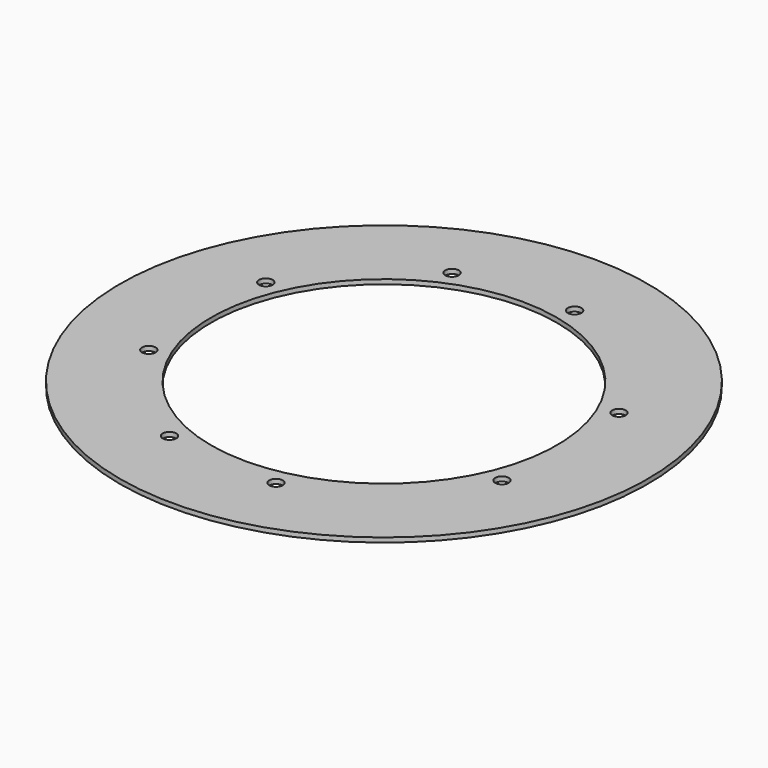
from build123d import *

# Parameters (mm, degrees)
CYLINDER757_R               = 1.5
CYLINDER757_DEPTH           = 100
CYLINDER757_PLACEMENT_ANGLE = 100
CYLINDER755_R               = 1.5
CYLINDER755_DEPTH           = 100
CYLINDER755_PLACEMENT_ANGLE = 135
CYLINDER759_R               = 1.5
CYLINDER759_DEPTH           = 100
CYLINDER761_R               = 1.5
CYLINDER761_DEPTH           = 100
CYLINDER761_PLACEMENT_ANGLE = 225
CYLINDER754_R               = 1.5
CYLINDER754_DEPTH           = 100
CYLINDER758_R               = 1.5
CYLINDER758_DEPTH           = 100
CYLINDER758_PLACEMENT_ANGLE = 55
CYLINDER756_R               = 1.5
CYLINDER756_DEPTH           = 100
CYLINDER760_R               = 1.5
CYLINDER760_DEPTH           = 100
CYLINDER760_PLACEMENT_ANGLE = 45
TUBE079_R                   = 58
TUBE079_R_2                 = 38
TUBE079_DEPTH               = 1
CUT325_PLACEMENT_ANGLE      = 90


with BuildPart() as obj1:
    # Cylinder757 → Cylinder757 (new body)
    with BuildSketch(Plane.XY):
        Circle(CYLINDER757_R)
    extrude(amount=CYLINDER757_DEPTH)


with BuildPart() as obj1_1:
    # Cylinder757 placement: moved
    add(obj1.part.moved(Location((41.004432, -9.090464, 0))).rotate(Axis((41.004432, -9.090464, 0), (0, 0, 1)), CYLINDER757_PLACEMENT_ANGLE))


with BuildPart() as obj2:
    # Cylinder755 → Cylinder755 (new body)
    with BuildSketch(Plane.XY):
        Circle(CYLINDER755_R)
    extrude(amount=CYLINDER755_DEPTH)


with BuildPart() as obj2_1:
    # Cylinder755 placement: moved
    add(obj2.part.moved(Location((38.80294, 16.072704, 0))).rotate(Axis((38.80294, 16.072704, 0), (0, 0, 1)), CYLINDER755_PLACEMENT_ANGLE))


with BuildPart() as obj3:
    # Cylinder759 → Cylinder759 (new body)
    with BuildSketch(Plane(origin=(16.072704, 38.80294, 0), x_dir=(-1, 0, 0), z_dir=(0, 0, 1))):
        Circle(CYLINDER759_R)
    extrude(amount=CYLINDER759_DEPTH)


with BuildPart() as obj4:
    # Cylinder761 → Cylinder761 (new body)
    with BuildSketch(Plane.XY):
        Circle(CYLINDER761_R)
    extrude(amount=CYLINDER761_DEPTH)


with BuildPart() as obj4_1:
    # Cylinder761 placement: moved
    add(obj4.part.moved(Location((-16.072704, 38.80294, 0))).rotate(Axis((-16.072704, 38.80294, 0), (0, 0, 1)), CYLINDER761_PLACEMENT_ANGLE))


with BuildPart() as obj5:
    # Cylinder754 → Cylinder754 (new body)
    with BuildSketch(Plane(origin=(-38.80294, 16.072704, 0), x_dir=(0, -1, 0), z_dir=(0, 0, 1))):
        Circle(CYLINDER754_R)
    extrude(amount=CYLINDER754_DEPTH)


with BuildPart() as obj6:
    # Cylinder758 → Cylinder758 (new body)
    with BuildSketch(Plane.XY):
        Circle(CYLINDER758_R)
    extrude(amount=CYLINDER758_DEPTH)


with BuildPart() as obj6_1:
    # Cylinder758 placement: moved
    add(obj6.part.moved(Location((-41.004432, -9.090464, 0))).rotate(Axis((-41.004432, -9.090464, 0), (0, 0, -1)), CYLINDER758_PLACEMENT_ANGLE))


with BuildPart() as obj7:
    # Cylinder756 → Cylinder756 (new body)
    with BuildSketch(Plane(origin=(-16.072704, -38.80294, 0), x_dir=(1, 0, 0), z_dir=(0, 0, 1))):
        Circle(CYLINDER756_R)
    extrude(amount=CYLINDER756_DEPTH)


with BuildPart() as compound709:
    # Cylinder760 → Cylinder760 (new body)
    with BuildSketch(Plane.XY):
        Circle(CYLINDER760_R)
    extrude(amount=CYLINDER760_DEPTH)


with BuildPart() as compound709_1:
    # Cylinder760 placement: moved
    add(compound709.part.moved(Location((16.072704, -38.80294, 0))).rotate(Axis((16.072704, -38.80294, 0), (0, 0, 1)), CYLINDER760_PLACEMENT_ANGLE))

    # Compound709: union obj1, obj2, obj3, obj4, obj5, obj6, obj7
    add(obj1_1.part)
    add(obj2_1.part)
    add(obj3.part)
    add(obj4_1.part)
    add(obj5.part)
    add(obj6_1.part)
    add(obj7.part)


with BuildPart() as obj8:
    # Tube079 → Tube079 (new body)
    with BuildSketch(Plane.XY.offset(42)):
        Circle(TUBE079_R)
        Circle(TUBE079_R_2, mode=Mode.SUBTRACT)
    extrude(amount=TUBE079_DEPTH)

    # Cut325: cut Compound709
    add(compound709_1.part, mode=Mode.SUBTRACT)


with BuildPart() as obj8_1:
    # Cut325 placement: moved
    add(obj8.part.rotate(Axis((0, 0, 0), (0, 0, 1)), CUT325_PLACEMENT_ANGLE))


solid = obj8_1.part
